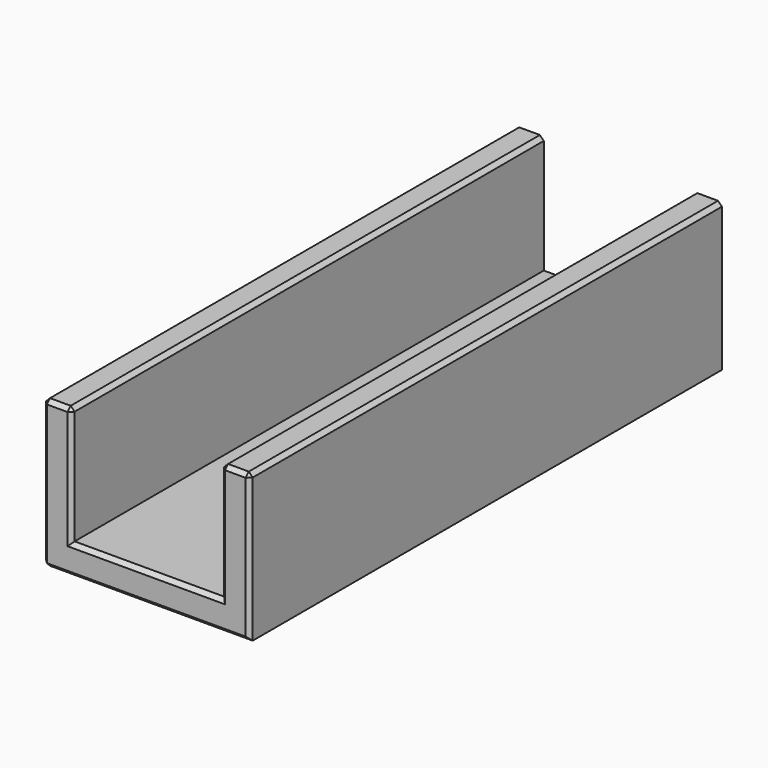
from build123d import *

# Parameters (mm, degrees)
BOX_W        = 15.2
BOX_H        = 60
BOX_DEPTH    = 15
BOX001_W     = 21
BOX001_H     = 60
BOX001_DEPTH = 15
CHAMFER_SIZE = 0.4


with BuildPart() as cube:
    # Box → Box (new body)
    with BuildSketch(Plane(origin=(-7.6, 0, 3), x_dir=(1, 0, 0), z_dir=(0, 0, 1))):
        with Locations((7.6, 30)):
            Rectangle(BOX_W, BOX_H)
    extrude(amount=BOX_DEPTH)


with BuildPart() as obj1:
    # Box001 → Box001 (new body)
    with BuildSketch(Plane(origin=(-10.5, 0, 0), x_dir=(1, 0, 0), z_dir=(0, 0, 1))):
        with Locations((10.5, 30)):
            Rectangle(BOX001_W, BOX001_H)
    extrude(amount=BOX001_DEPTH)

    # Cut: cut Cube
    add(cube.part, mode=Mode.SUBTRACT)

    # Chamfer
    chamfer_edges = [obj1.edges().sort_by_distance(p)[0] for p in [
        (-10.5, 0, 7.5),
        (-10.5, 30, 15),
        (-10.5, 30, 0),
        (10.5, 0, 7.5),
        (9.05, 0, 15),
        (7.6, 0, 9),
        (0, 0, 3),
        (-7.6, 0, 9),
        (-9.05, 0, 15),
        (0, 0, 0),
        (-7.6, 30, 15),
        (10.5, 30, 15),
        (7.6, 30, 15),
    ]]
    chamfer(chamfer_edges, length=CHAMFER_SIZE)


solid = obj1.part
